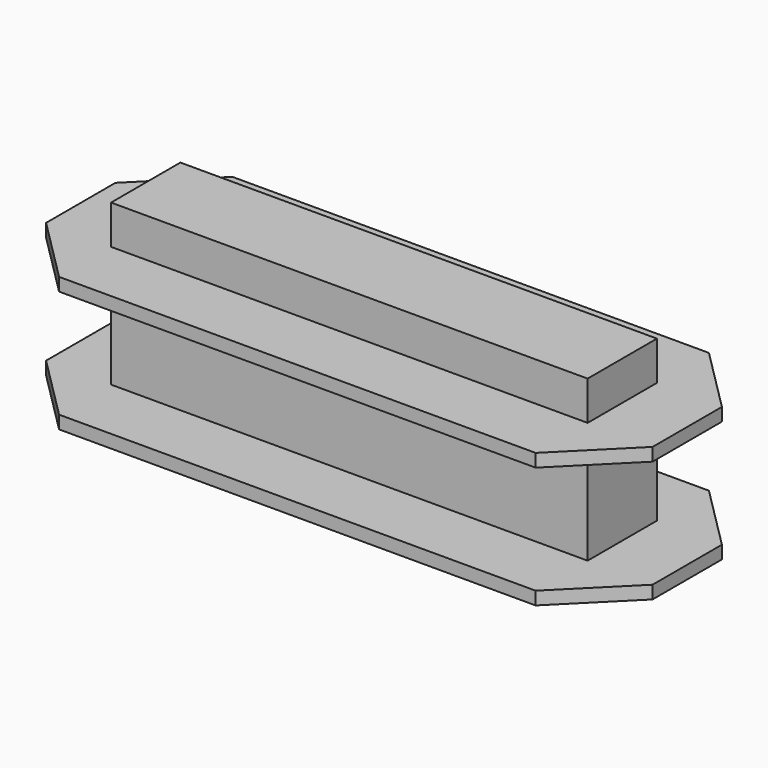
from build123d import *

# Parameters (mm, degrees)
F1_DEPTH = 400
F2_W     = 1400
F2_H     = 250
F2_H_2   = 90
F3_DEPTH = 500.001
F4_W     = 1100
F4_H     = 200
F5_DEPTH = 400


with BuildPart() as f1:
    # F0 (on Top) → F1 (new body)
    with BuildSketch(Plane.XY):
        Polygon((1250, 0), (150, 0), (0, -150), (0, -350), (150, -500), (1250, -500), (1400, -350), (1400, -150), align=None)
    extrude(amount=F1_DEPTH)

    # F2 (on face) → F3 (cut, through all)
    with BuildSketch(Plane(origin=(0, 0, 0), x_dir=(-1, 0, 0), z_dir=(0, 1, 0))):
        with Locations((-700, 155)):
            Rectangle(F2_W, F2_H)
        with Locations((-700, 355)):
            Rectangle(F2_W, F2_H_2)
    extrude(amount=-F3_DEPTH, mode=Mode.SUBTRACT)

    # F4 (on face) → F5 (join)
    with BuildSketch(Plane(origin=(0, 0, 0), x_dir=(1, 0, 0), z_dir=(0, 0, -1))):
        with Locations((700, 250)):
            Rectangle(F4_W, F4_H)
    extrude(amount=-F5_DEPTH)


solid = f1.part
